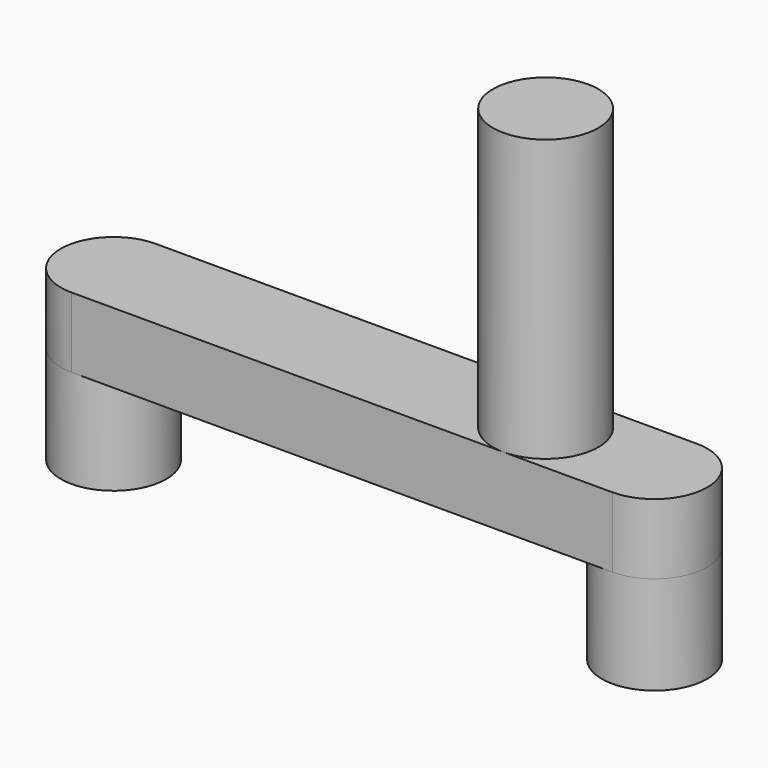
from build123d import *

# Parameters (mm, degrees)
PAD003_DEPTH = 5
SKETCH003_R  = 3.75
PAD004_DEPTH = 20
SKETCH004_R  = 3.75
PAD005_DEPTH = 7


with BuildPart() as part:
    # Sketch002 → Pad003 (new body)
    with BuildSketch(Plane.XY):
        with BuildLine():
            ThreePointArc((-19.25, 3.75), (-23, 0), (-19.25, -3.75))
            Line((-19.25, -3.75), (19.25, -3.75))
            ThreePointArc((19.25, -3.75), (23, 0), (19.25, 3.75))
            Line((-19.25, 3.75), (19.25, 3.75))
        make_face()
    extrude(amount=PAD003_DEPTH)

    # Sketch003 (on Face6 of Pad003) → Pad004 (join)
    with BuildSketch(Plane.XY.offset(5)):
        with Locations((11.5, 0)):
            Circle(SKETCH003_R)
    extrude(amount=PAD004_DEPTH)

    # Sketch004 (on Face4 of Pad004) → Pad005 (join)
    with BuildSketch(Plane(origin=(0, 0, 0), x_dir=(1, 0, 0), z_dir=(0, 0, -1))):
        with Locations((-19.25, 0)):
            Circle(SKETCH004_R)
        with Locations((19.25, 0)):
            Circle(SKETCH004_R)
    extrude(amount=PAD005_DEPTH)


solid = part.part
